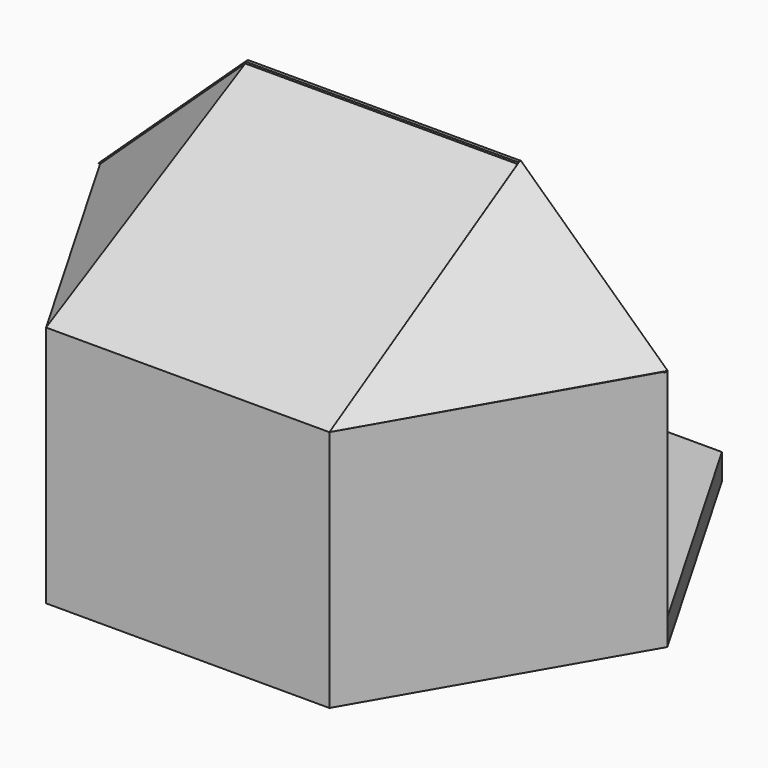
from build123d import *

# Parameters (mm, degrees)
F0_W      = 50
F0_H      = 12.5
F1_DEPTH  = 8
F2_DEPTH  = 75
F4_DEPTH  = 8
F7_DEPTH  = 3
F8_DEPTH  = 1
F11_DEPTH = 3
F14_DEPTH = 3


with BuildPart() as f1:
    # F0 (on Top) → F1 (new body)
    with BuildSketch(Plane.XY):
        Polygon((-42.017949, 72.777223), (-84.035898, 0), (-42.017949, -72.777223), (42.017949, -72.777223), (84.035898, 0), (42.017949, 72.777223), align=None)
        with Locations((0, 54.582917)):
            Rectangle(F0_W, F0_H, mode=Mode.SUBTRACT)
    extrude(amount=F1_DEPTH)

    # F0 (on Top) → F2 (join)
    with BuildSketch(Plane.XY):
        Polygon((-84.035898, 0), (-87.5, 0), (-43.75, -75.777223), (43.75, -75.777223), (87.5, 0), (84.035898, 0), (42.017949, -72.777223), (-42.017949, -72.777223), align=None)
    extrude(amount=F2_DEPTH)

    # F0 (on Top) → F4 (join)
    with BuildSketch(Plane.XY):
        Polygon((43.75, 75.777223), (-43.75, 75.777223), (-87.5, 0), (-84.035898, 0), (-42.017949, 72.777223), (42.017949, 72.777223), (84.035898, 0), (87.5, 0), align=None)
    extrude(amount=F4_DEPTH)

    # F6 (on face) → F7 (join)
    with BuildSketch(Plane(origin=(0, -50.131237, 89.383668), x_dir=(1, 0, 0), z_dir=(0, 0.489171, -0.872188))):
        Polygon((43.75, 29.404192), (0, 29.404192), (-43.75, 29.404192), (-42.01795, -57.477552), (42.01795, -57.477552), align=None)
    extrude(amount=F7_DEPTH)

    # F3 (on Front) → F8 (join)
    with BuildSketch(Plane.XZ):
        Polygon((-42.01795, 114.5), (0, 114.5), (42.01795, 114.5), (84.0359, 75), (87.5, 75), (42.01795, 117.5), (0, 117.5), (-42.01795, 117.5), (-87.5, 75), (-84.0359, 75), align=None)
    extrude(amount=F8_DEPTH)

    # F10 (on face) → F11 (join)
    with BuildSketch(Plane(origin=(-67.684673, -39.077764, 72.433827), x_dir=(0.772363, -0.301588, 0.559017), z_dir=(-0.635181, -0.366722, 0.67975))):
        Polygon((33.231426, 55.789645), (-25.65546, 35.610412), (30.988892, -31.080422), align=None)
    extrude(amount=-F11_DEPTH)

    # F13 (on face) → F14 (join)
    with BuildSketch(Plane(origin=(67.675669, -39.595085, 72.424192), x_dir=(0.773305, 0.304147, -0.556322), z_dir=(-0.634035, 0.370955, -0.678522))):
        Polygon((-30.93951, 30.511739), (-32.875165, -56.364915), (25.940007, -35.977606), align=None)
    extrude(amount=F14_DEPTH)


solid = f1.part
